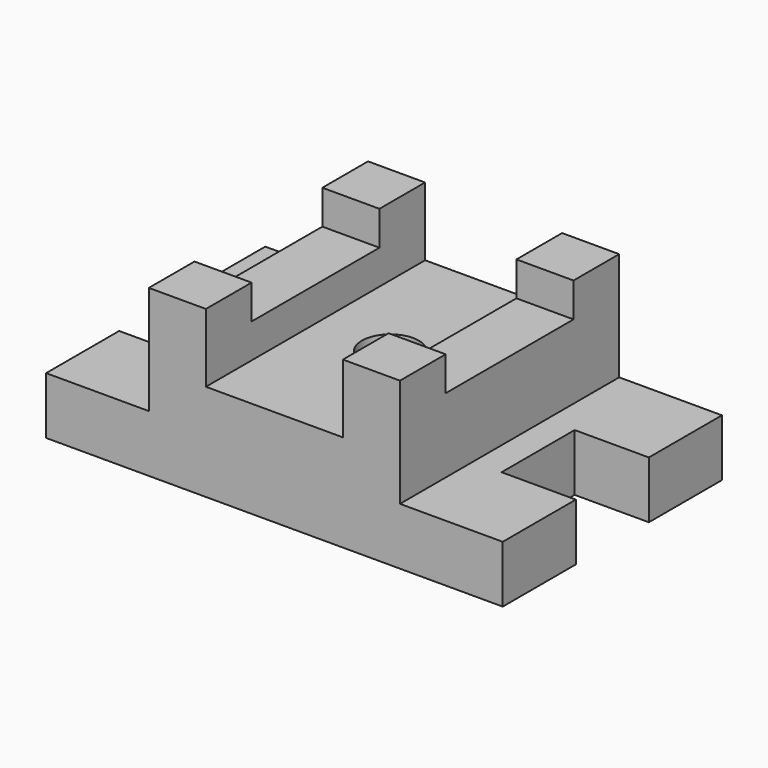
from build123d import *

# Parameters (mm, degrees)
F1_DEPTH = 31.75
F0_W     = 31.75
F0_H     = 31.75
F2_DEPTH = 92.075
F0_H_2   = 88.9
F3_DEPTH = 73.025
F0_R     = 15.875
F4_DEPTH = 53.975


with BuildPart() as f1:
    # F0 (on Top) → F1 (new body)
    with BuildSketch(Plane.XY):
        Polygon((-130.549153, -50.8), (-130.549153, -101.6), (-73.399153, -101.6), (-73.399153, -69.85), (-73.399153, 19.05), (-73.399153, 50.8), (-130.549153, 50.8), (-130.549153, 0), (-89.274153, 0), (-89.274153, -50.8), align=None)
        Polygon((66.300847, -69.85), (66.300847, -101.6), (123.450847, -101.6), (123.450847, -50.8), (82.175847, -50.8), (82.175847, 0), (123.450847, 0), (123.450847, 50.8), (66.300847, 50.8), (66.300847, 19.05), align=None)
    extrude(amount=F1_DEPTH)

    # F0 (on Top) → F2 (join)
    with BuildSketch(Plane.XY):
        with Locations((-57.524153, 34.925)):
            Rectangle(F0_W, F0_H)
        with Locations((-57.524153, -85.725)):
            Rectangle(F0_W, F0_H)
        with Locations((50.425847, -85.725)):
            Rectangle(F0_W, F0_H)
        with Locations((50.425847, 34.925)):
            Rectangle(F0_W, F0_H)
    extrude(amount=F2_DEPTH)

    # F0 (on Top) → F3 (join)
    with BuildSketch(Plane.XY):
        with Locations((-57.524153, -25.4)):
            Rectangle(F0_W, F0_H_2)
        with Locations((50.425847, -25.4)):
            Rectangle(F0_W, F0_H_2)
    extrude(amount=F3_DEPTH)

    # F0 (on Top) → F4 (join)
    with BuildSketch(Plane.XY):
        Polygon((-41.649153, -69.85), (-41.649153, -101.6), (34.550847, -101.6), (34.550847, -69.85), (34.550847, 19.05), (34.550847, 50.8), (-41.649153, 50.8), (-41.649153, 19.05), align=None)
        with Locations((0, -25.4)):
            Circle(F0_R, mode=Mode.SUBTRACT)
    extrude(amount=F4_DEPTH)


solid = f1.part
